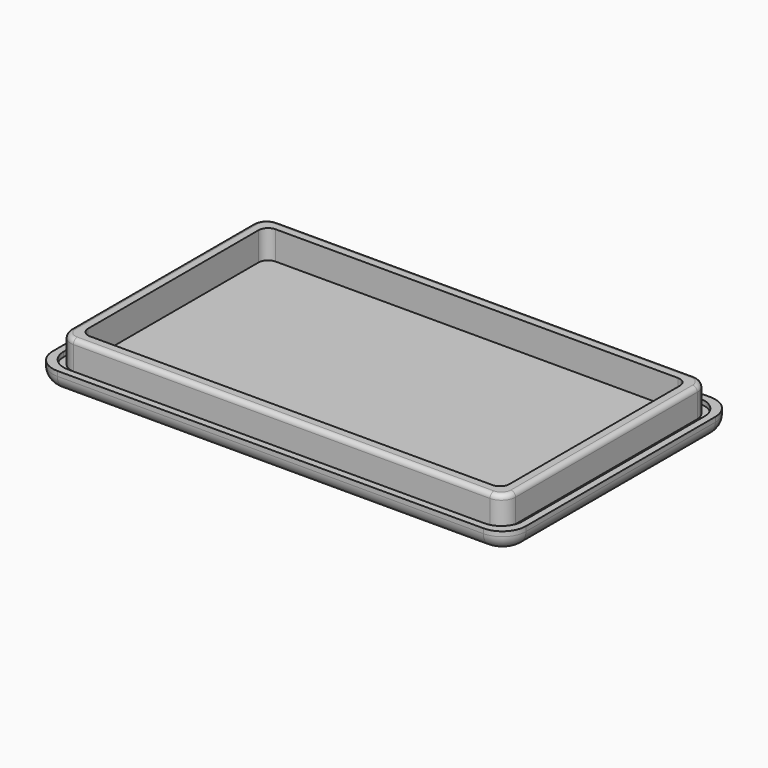
from build123d import *

# Parameters (mm, degrees)
SKETCH_W        = 100
SKETCH_H        = 60
PAD_DEPTH       = 4
FILLET_R        = 5
FILLET001_R     = 3
POCKET001_DEPTH = 1
PAD001_DEPTH    = 5
POCKET_DEPTH    = 6
FILLET002_R     = 1


with BuildPart() as part:
    # Sketch → Pad (new body)
    with BuildSketch(Plane.XY):
        with Locations((50, 30)):
            Rectangle(SKETCH_W, SKETCH_H)
    extrude(amount=PAD_DEPTH)

    # Fillet
    fillet_edges = [part.edges().sort_by_distance(p)[0] for p in [
        (100, 0, 2),
        (0, 0, 2),
        (100, 60, 2),
        (0, 60, 2),
    ]]
    fillet(fillet_edges, radius=FILLET_R)

    # Fillet001
    fillet001_edges = [part.edges().sort_by_distance(p)[0] for p in [
        (50, 60, 0),
    ]]
    fillet(fillet001_edges, radius=FILLET001_R)

    # Sketch008 (on Face6 of Pad) → Pocket001 (cut)
    with BuildSketch(Plane.XY.offset(4)):
        with BuildLine():
            Line((6, 1.5), (94, 1.5))
            ThreePointArc((94, 1.5), (97.181981, 2.818019), (98.5, 6))
            Line((98.5, 6), (98.5, 54))
            ThreePointArc((98.5, 54), (97.181981, 57.181981), (94, 58.5))
            Line((94, 58.5), (6, 58.5))
            ThreePointArc((6, 58.5), (2.818019, 57.181981), (1.5, 54))
            Line((1.5, 54), (1.5, 6))
            ThreePointArc((1.5, 6), (2.818019, 2.818019), (6, 1.5))
        make_face()
        with BuildLine():
            Line((6, 3), (94, 3))
            ThreePointArc((94, 3), (96.12132, 3.87868), (97, 6))
            Line((97, 6), (97, 54))
            ThreePointArc((97, 54), (96.12132, 56.12132), (94, 57))
            Line((94, 57), (6, 57))
            ThreePointArc((6, 57), (3.87868, 56.12132), (3, 54))
            Line((3, 54), (3, 6))
            ThreePointArc((3, 6), (3.87868, 3.87868), (6, 3))
        make_face(mode=Mode.SUBTRACT)
    extrude(amount=-POCKET001_DEPTH, mode=Mode.SUBTRACT)

    # Sketch001 (on Face6 of Pad) → Pad001 (join)
    with BuildSketch(Plane.XY.offset(4)):
        with BuildLine():
            Line((6, 3), (94, 3))
            ThreePointArc((94, 3), (96.12132, 3.87868), (97, 6))
            Line((97, 6), (97, 54))
            ThreePointArc((97, 54), (96.12132, 56.12132), (94, 57))
            Line((94, 57), (6, 57))
            ThreePointArc((6, 57), (3.87868, 56.12132), (3, 54))
            Line((3, 54), (3, 6))
            ThreePointArc((3, 6), (3.87868, 3.87868), (6, 3))
        make_face()
    extrude(amount=PAD001_DEPTH)

    # Sketch009 (on Face44 of Pad001) → Pocket (cut)
    with BuildSketch(Plane.XY.offset(9)):
        with BuildLine():
            Line((7.5, 5.5), (92.5, 5.5))
            ThreePointArc((92.5, 5.5), (93.914214, 6.085786), (94.5, 7.5))
            Line((94.5, 7.5), (94.5, 52.5))
            ThreePointArc((94.5, 52.5), (93.914214, 53.914214), (92.5, 54.5))
            Line((92.5, 54.5), (7.5, 54.5))
            ThreePointArc((7.5, 54.5), (6.085786, 53.914214), (5.5, 52.5))
            Line((5.5, 52.5), (5.5, 7.5))
            ThreePointArc((5.5, 7.5), (6.085786, 6.085786), (7.5, 5.5))
        make_face()
    extrude(amount=-POCKET_DEPTH, mode=Mode.SUBTRACT)

    # Fillet002
    fillet002_edges = [part.edges().sort_by_distance(p)[0] for p in [
        (50, 3, 9),
    ]]
    fillet(fillet002_edges, radius=FILLET002_R)


solid = part.part
